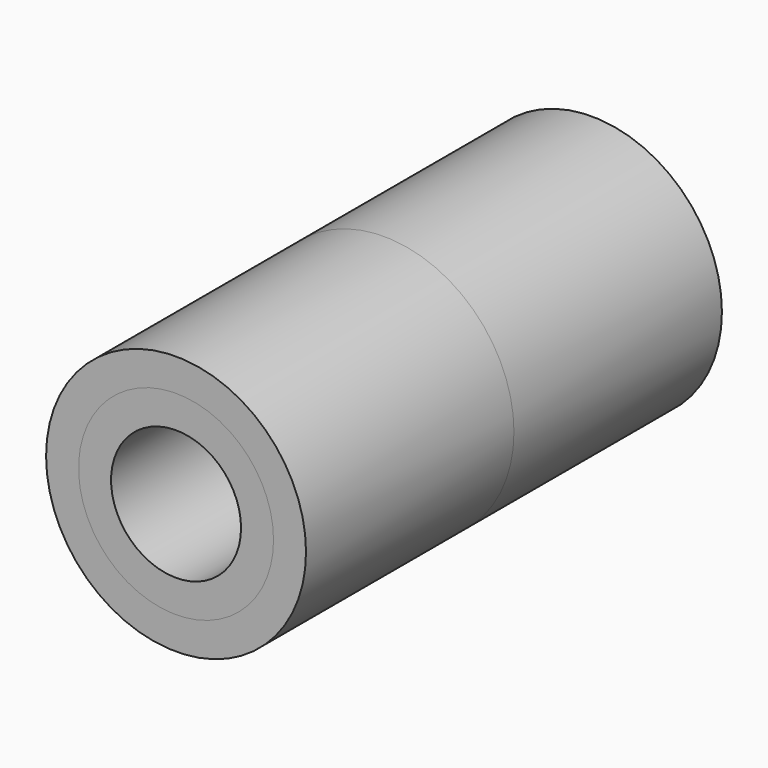
from build123d import *

# Parameters (mm, degrees)
F0_R     = 25.4
F0_R_2   = 19.05
F1_DEPTH = 50.8
F0_R_3   = 12.7
F2_DEPTH = 50.8
F3_DEPTH = 50.8


with BuildPart() as f1:
    # F0 (on Front) → F1 (new body)
    with BuildSketch(Plane.XZ):
        Circle(F0_R)
        Circle(F0_R_2, mode=Mode.SUBTRACT)
    extrude(amount=F1_DEPTH)


with BuildPart() as f2:
    # F0 (on Front) → F2 (new body)
    with BuildSketch(Plane.XZ):
        Circle(F0_R_2)
        Circle(F0_R_3, mode=Mode.SUBTRACT)
    extrude(amount=F2_DEPTH)


with BuildPart() as f3:
    # F0 (on Front) → F3 (new body)
    with BuildSketch(Plane.XZ):
        Circle(F0_R)
        Circle(F0_R_2, mode=Mode.SUBTRACT)
        Circle(F0_R_2)
        Circle(F0_R_3, mode=Mode.SUBTRACT)
    extrude(amount=-F3_DEPTH)


solid = Compound([f1.part, f2.part, f3.part])
